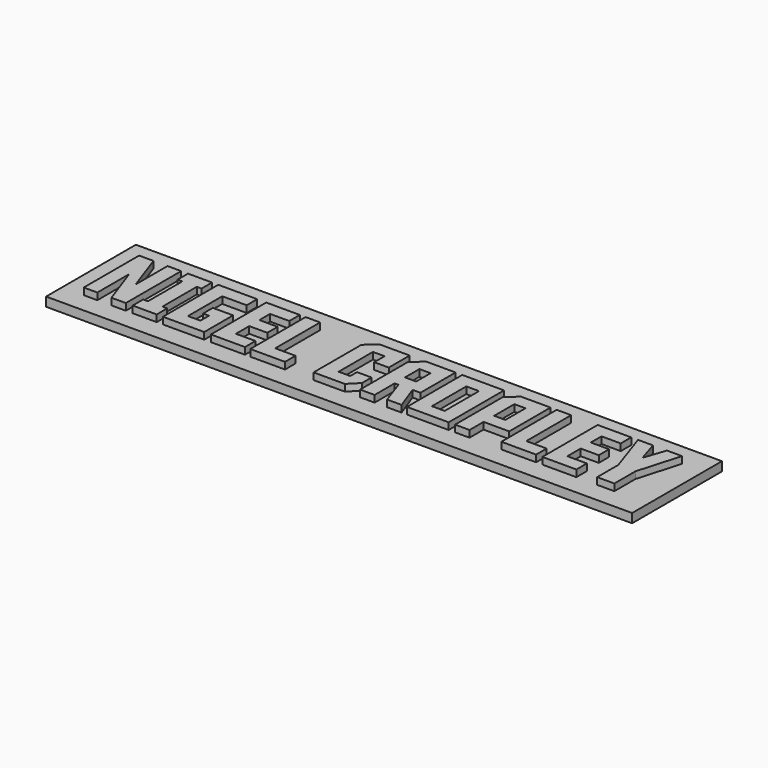
from build123d import *

# Parameters (mm, degrees)
F0_W     = 129.536152
F0_H     = 24.80902
F2_DEPTH = 2
F1_W     = 2.46322
F1_H     = 3.985553
F1_W_2   = 9.229143
F1_H_2   = 15.286758
F1_W_3   = 2.812087
F1_H_3   = 9.482866
F1_W_4   = 2.463219
F1_H_4   = 5.571315
F3_DEPTH = 1.5


with BuildPart() as f2:
    # F0 (on Top) → F2 (new body)
    with BuildSketch(Plane.XY):
        Rectangle(F0_W, F0_H)
    extrude(amount=-F2_DEPTH)

    # F1 (on Top) → F3 (join)
    with BuildSketch(Plane.XY):
        Polygon((-53.720365, 7.334459), (-53.720365, -1.440098), (-56.82846, 7.334459), (-59.999987, 7.334459), (-59.999987, -7.952299), (-56.997608, -7.952299), (-56.997608, 0.822258), (-53.868369, -7.952299), (-50.696842, -7.952299), (-50.696842, 7.334459), align=None)
        Polygon((-43.87806, -7.952299), (-43.87806, -5.055639), (-44.935236, -5.055639), (-44.935236, 4.437799), (-43.87806, 4.437799), (-43.87806, 7.334459), (-49.195653, 7.334459), (-49.195653, 4.437799), (-48.138477, 4.437799), (-48.138477, -5.055639), (-49.195653, -5.055639), (-49.195653, -7.952299), align=None)
        Polygon((-36.541261, -2.698137), (-36.541261, -5.055639), (-39.289917, -5.055639), (-39.289917, 4.427227), (-33.898322, 4.427227), (-33.898322, 7.334459), (-42.503731, 7.334459), (-42.503731, -7.952299), (-33.369735, -7.952299), (-33.369735, 0.018804), (-37.841588, 0.018804), (-37.841588, -2.698137), align=None)
        Polygon((-24.478888, 7.334459), (-31.90026, 7.334459), (-31.90026, -7.952299), (-24.37317, -7.952299), (-24.37317, -5.055639), (-28.686446, -5.055639), (-28.686446, -1.376668), (-24.690323, -1.376668), (-24.690323, 1.477707), (-28.728733, 1.477707), (-28.728733, 4.427227), (-24.478888, 4.427227), align=None)
        Polygon((-23.199705, 7.334459), (-23.199705, -7.952299), (-15.514039, -7.952299), (-15.514039, -5.055639), (-19.996463, -5.055639), (-19.996463, 7.334459), align=None)
        Polygon((-3.409379, -3.19501), (-3.409379, -5.055639), (-5.988887, -5.055639), (-5.988887, 4.427227), (-3.409379, 4.427227), (-3.409379, 1.562281), (-0.195565, 1.562281), (-0.195565, 7.334459), (-6.919202, 7.334459), (-9.202701, 5.23068), (-9.202701, -7.952299), (-2.309916, -7.952299), (-0.195565, -5.837948), (-0.195565, -3.19501), align=None)
        Polygon((5.1326, -2.423271), (7.035516, -7.952299), (10.24933, -7.952299), (8.219553, -2.380984), (9.953321, -2.380984), (9.953321, 7.334459), (3.409404, 7.334459), (1.083618, 5.177821), (1.083618, -7.952299), (4.286859, -7.952299), (4.286859, -2.423271), align=None)
        with Locations((5.518469, 2.43445)):
            Rectangle(F1_W, F1_H, mode=Mode.SUBTRACT)
        with Locations((16.047938, -0.30892)):
            Rectangle(F1_W_2, F1_H_2)
        with Locations((16.053224, -0.314206)):
            Rectangle(F1_W_3, F1_H_3, mode=Mode.SUBTRACT)
        Polygon((22.068553, -7.952299), (25.271795, -7.952299), (25.271795, -4.072465), (30.938256, -4.072465), (30.938256, 7.334459), (24.383768, 7.334459), (22.068553, 5.177821), align=None)
        with Locations((26.503404, 1.641569)):
            Rectangle(F1_W_4, F1_H_4, mode=Mode.SUBTRACT)
        Polygon((32.302012, 7.334459), (32.302012, -7.952299), (39.987679, -7.952299), (39.987679, -5.055639), (35.505254, -5.055639), (35.505254, 7.334459), align=None)
        Polygon((48.78338, 7.334459), (41.362008, 7.334459), (41.362008, -7.952299), (48.889098, -7.952299), (48.889098, -5.055639), (44.575821, -5.055639), (44.575821, -1.376668), (48.571945, -1.376668), (48.571945, 1.477707), (44.533534, 1.477707), (44.533534, 4.427227), (48.78338, 4.427227), align=None)
        Polygon((60.000013, 7.334459), (56.66991, 7.334459), (55.063003, 2.598313), (53.582958, 7.334459), (50.273998, 7.334459), (53.477239, -2.106119), (53.477239, -7.952299), (57.278849, -7.952299), (57.278849, -2.106119), align=None)
    extrude(amount=F3_DEPTH)


solid = f2.part
